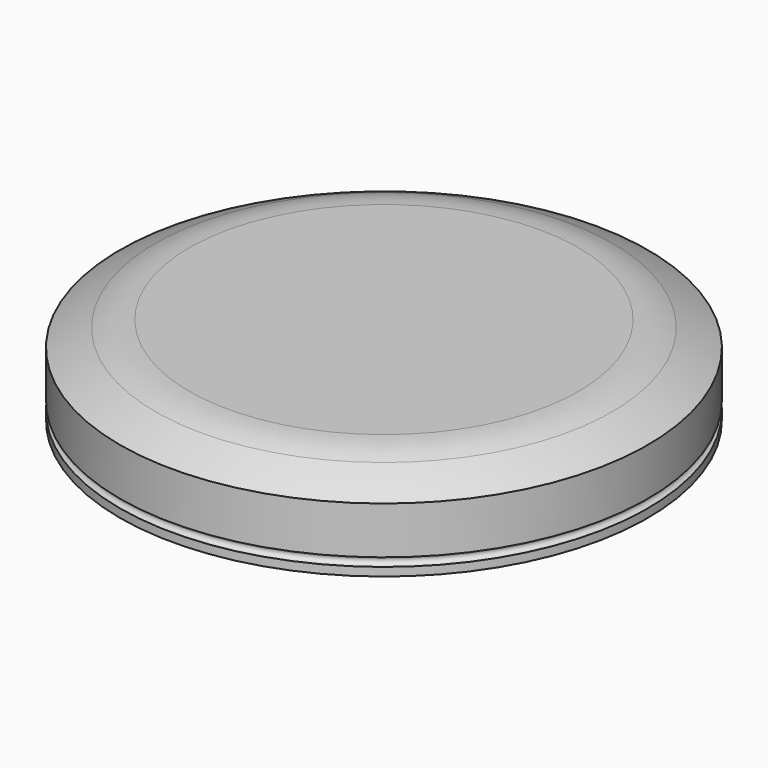
from build123d import *


with BuildPart() as crystal:
    # Sketch002 → Revolution001 (revolve)
    with BuildSketch(Plane.YZ):
        with BuildLine():
            Line((14.1, 2), (14.1, 0))
            Line((14.1, 0), (15.6, 0))
            Line((15.6, 0), (15.6, 0.5))
            ThreePointArc((15.6, 1), (15.35, 0.75), (15.6, 0.5))
            Line((15.6, 1), (15.6, 3.8))
            ThreePointArc((15.6, 3.8), (14.558314, 4.342731), (13.492285, 4.835935))
            ThreePointArc((13.492285, 4.835935), (12.517429, 5.145389), (11.5, 5.25))
            Line((0, 5.25), (11.5, 5.25))
            Line((0, 5.25), (0, 2.25))
            Line((0, 2.25), (13.85, 2.25))
            ThreePointArc((14.1, 2), (14.026777, 2.176777), (13.85, 2.25))
        make_face()
    revolve(axis=Axis((0, 0, 0), (0, 0, 1)))


with BuildPart() as tensionring:
    # Sketch → Revolution (revolve)
    with BuildSketch(Plane.YZ):
        Polygon((13.6, 0), (14.1, 0), (14.1, 0.5), align=None)
    revolve(axis=Axis((0, 0, 0), (0, 0, 1)))


solid = Compound([crystal.part, tensionring.part])
